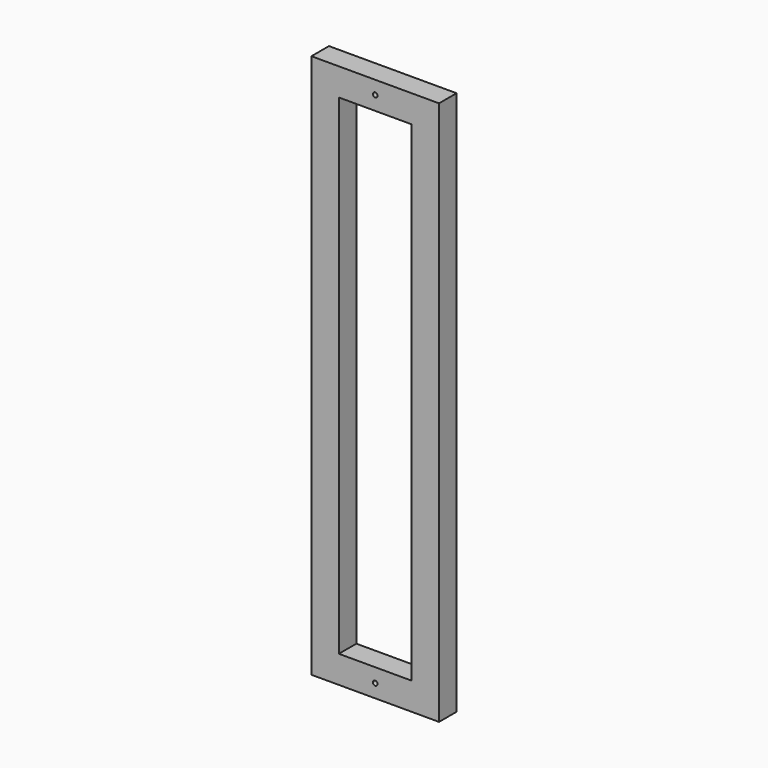
from build123d import *

# Parameters (mm, degrees)
F0_W     = 125
F0_H     = 2234
F1_DEPTH = 100
F3_DEPTH = 100.001


with BuildPart() as f1:
    # F0 (on Front) → F1 (new body)
    with BuildSketch(Plane.XZ):
        Polygon((-582, 0), (0, 0), (0, 125), (-125, 125), (-457, 125), (-582, 125), align=None)
        with Locations((-62.5, 1242)):
            Rectangle(F0_W, F0_H)
        with Locations((-519.5, 1242)):
            Rectangle(F0_W, F0_H)
        Polygon((-125, 2359), (0, 2359), (0, 2484), (-582, 2484), (-582, 2359), (-457, 2359), align=None)
    extrude(amount=F1_DEPTH)

    # F2 (on face) → F3 (cut, through all)
    with BuildSketch(Plane(origin=(0, 0, 0), x_dir=(-1, 0, 0), z_dir=(0, 1, 0))):
        with BuildLine():
            ThreePointArc((291, 2433.5), (283.575379, 2415.575379), (301.5, 2423))
            ThreePointArc((301.5, 2423), (298.424621, 2430.424621), (291, 2433.5))
        make_face()
        with BuildLine():
            ThreePointArc((291, 50.5), (298.424621, 53.575379), (301.5, 61))
            ThreePointArc((301.5, 61), (283.575379, 68.424621), (291, 50.5))
        make_face()
    extrude(amount=-F3_DEPTH, mode=Mode.SUBTRACT)


solid = f1.part
